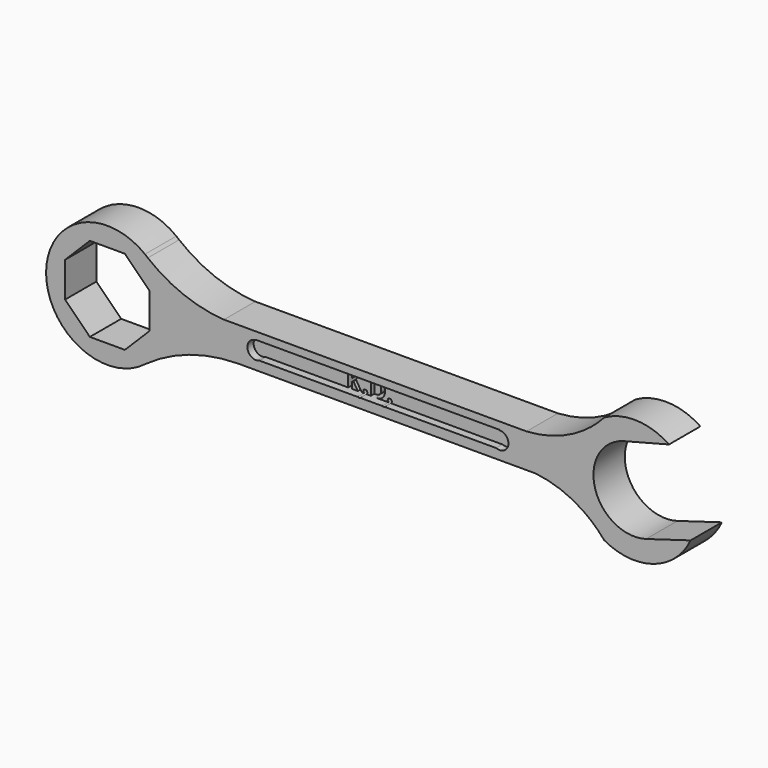
from build123d import *

# Parameters (mm, degrees)
F1_DEPTH = 5.08
F2_DEPTH = 6.35


with BuildPart() as f1:
    # F0 (on Front) → F1 (new body)
    with BuildSketch(Plane.XZ):
        Polygon((-37.6947642991, -0.3162783257), (-37.6947642991, -1.3017182937), (-36.7244291742, -1.3017182937), (-37.4476490649, -0.1386453701), align=None)
    extrude(amount=F1_DEPTH)


with BuildPart() as f1b:
    # F0 (on Front) → F1, piece 2 (new body)
    with BuildSketch(Plane.XZ):
        with BuildLine():
            add(Edge.make_bspline(
                [(-33.7735470137, -0.8183633124), (-32.9276757965, -0.8183633124), (-32.9276757965, 0.0897398586)],
                knots=[0, 0, 0, 1, 1, 1], degree=2))
            add(Edge.make_bspline(
                [(-32.9276757965, 0.0897398586), (-32.9276757965, 0.9791130241), (-33.7131276411, 0.9791130241)],
                knots=[0, 0, 0, 1, 1, 1], degree=2))
            Line((-33.7131276411, 0.9791130241), (-34.0242874102, 0.9791130241))
            Line((-34.0242874102, 0.9791130241), (-34.0242874102, -0.8183633124))
            Line((-34.0242874102, -0.8183633124), (-33.7735470137, -0.8183633124))
        make_face()
    extrude(amount=F1_DEPTH)


with BuildPart() as f1c:
    # F0 (on Front) → F1, piece 3 (new body)
    with BuildSketch(Plane.XZ):
        with BuildLine():
            ThreePointArc((-52.2002466023, 1.4169405788), (-53.5880827015, -0.2857123828), (-51.6405591111, -1.3017182937))
            Line((-51.6405591111, -1.3017182937), (-38.2802280201, -1.3017182937))
            Line((-38.2802280201, -1.3017182937), (-38.2802280201, 1.4588428429))
            Line((-38.2802280201, 1.4588428429), (-37.6947642991, 1.4588428429))
            Line((-37.6947642991, 1.4588428429), (-37.6947642991, 0.1954737607))
            Line((-37.6947642991, 0.1954737607), (-37.4645664893, 0.5205299856))
            Line((-37.4645664893, 0.5205299856), (-36.7165746558, 1.4588428429))
            Line((-36.7165746558, 1.4588428429), (-36.0670663997, 1.4588428429))
            Line((-36.0670663997, 1.4588428429), (-37.0301511999, 0.2371631278))
            Line((-37.0301511999, 0.2371631278), (-36.059816075, -1.3017182937))
            Line((-36.059816075, -1.3017182937), (-35.7097975851, -1.3017182937))
            add(Edge.make_bspline(
                [(-35.7097975851, -1.3017182937), (-35.7326776428, -1.2871840866), (-35.7519793713, -1.2684876387)],
                knots=[0.7773779948, 0.7773779948, 0.7773779948, 1, 1, 1], degree=2))
            add(Edge.make_bspline(
                [(-35.7519793713, -1.2684876387), (-35.8386811711, -1.1845047107), (-35.8386811711, -1.0316436979)],
                knots=[0, 0, 0, 1, 1, 1], degree=2))
            add(Edge.make_bspline(
                [(-35.8386811711, -1.0316436979), (-35.8386811711, -0.8733449416), (-35.7537919525, -0.7920808853)],
                knots=[0, 0, 0, 1, 1, 1], degree=2))
            add(Edge.make_bspline(
                [(-35.7537919525, -0.7920808853), (-35.6689027339, -0.7108168291), (-35.5063746215, -0.7108168291)],
                knots=[0, 0, 0, 1, 1, 1], degree=2))
            add(Edge.make_bspline(
                [(-35.5063746215, -0.7108168291), (-35.3498884463, -0.7108168291), (-35.2640929371, -0.7938934665)],
                knots=[0, 0, 0, 1, 1, 1], degree=2))
            add(Edge.make_bspline(
                [(-35.2640929371, -0.7938934665), (-35.178297428, -0.8769701039), (-35.178297428, -1.0316436979)],
                knots=[0, 0, 0, 1, 1, 1], degree=2))
            add(Edge.make_bspline(
                [(-35.178297428, -1.0316436979), (-35.178297428, -1.1808795484), (-35.2649992277, -1.2666750575)],
                knots=[0, 0, 0, 1, 1, 1], degree=2))
            add(Edge.make_bspline(
                [(-35.2649992277, -1.2666750575), (-35.2850167295, -1.2864833171), (-35.3086574309, -1.3017182937)],
                knots=[0, 0, 0, 0.2308775808, 0.2308775808, 0.2308775808], degree=2))
            Line((-35.3086574309, -1.3017182937), (-34.6097511313, -1.3017182937))
            Line((-34.6097511313, -1.3017182937), (-34.6097511313, 1.4588428429))
            Line((-34.6097511313, 1.4588428429), (-33.7433373274, 1.4588428429))
            add(Edge.make_bspline(
                [(-33.7433373274, 1.4588428429), (-33.0672445474, 1.4588428429), (-32.6932486306, 1.1020664474)],
                knots=[0, 0, 0, 1, 1, 1], degree=2))
            add(Edge.make_bspline(
                [(-32.6932486306, 1.1020664474), (-32.3192527139, 0.7452900519), (-32.3192527139, 0.1048447017)],
                knots=[0, 0, 0, 1, 1, 1], degree=2))
            add(Edge.make_bspline(
                [(-32.3192527139, 0.1048447017), (-32.3192527139, -0.5766858218), (-32.7074471832, -0.9392020578)],
                knots=[0, 0, 0, 1, 1, 1], degree=2))
            add(Edge.make_bspline(
                [(-32.7074471832, -0.9392020578), (-33.0956416525, -1.3017182937), (-33.8279244491, -1.3017182937)],
                knots=[0, 0, 0, 1, 1, 1], degree=2))
            Line((-33.8279244491, -1.3017182937), (-31.7444741577, -1.3017182937))
            add(Edge.make_bspline(
                [(-31.7444741577, -1.3017182937), (-31.7673542154, -1.2871840866), (-31.7866559439, -1.2684876387)],
                knots=[0.7773779948, 0.7773779948, 0.7773779948, 1, 1, 1], degree=2))
            add(Edge.make_bspline(
                [(-31.7866559439, -1.2684876387), (-31.8733577437, -1.1845047107), (-31.8733577437, -1.0316436979)],
                knots=[0, 0, 0, 1, 1, 1], degree=2))
            add(Edge.make_bspline(
                [(-31.8733577437, -1.0316436979), (-31.8733577437, -0.8733449416), (-31.7884685251, -0.7920808853)],
                knots=[0, 0, 0, 1, 1, 1], degree=2))
            add(Edge.make_bspline(
                [(-31.7884685251, -0.7920808853), (-31.7035793065, -0.7108168291), (-31.5410511941, -0.7108168291)],
                knots=[0, 0, 0, 1, 1, 1], degree=2))
            add(Edge.make_bspline(
                [(-31.5410511941, -0.7108168291), (-31.3845650189, -0.7108168291), (-31.2987695098, -0.7938934665)],
                knots=[0, 0, 0, 1, 1, 1], degree=2))
            add(Edge.make_bspline(
                [(-31.2987695098, -0.7938934665), (-31.2129740006, -0.8769701039), (-31.2129740006, -1.0316436979)],
                knots=[0, 0, 0, 1, 1, 1], degree=2))
            add(Edge.make_bspline(
                [(-31.2129740006, -1.0316436979), (-31.2129740006, -1.1808795484), (-31.2996758003, -1.2666750575)],
                knots=[0, 0, 0, 1, 1, 1], degree=2))
            add(Edge.make_bspline(
                [(-31.2996758003, -1.2666750575), (-31.3196933021, -1.2864833171), (-31.3433340035, -1.3017182937)],
                knots=[0, 0, 0, 0.2308775808, 0.2308775808, 0.2308775808], degree=2))
            Line((-31.3433340035, -1.3017182937), (-13.2601651062, -1.3017182937))
            ThreePointArc((-13.2601651062, -1.3017182937), (-11.3126415158, -0.2857123828), (-12.700477615, 1.4169405788))
            Line((-12.700477615, 1.4169405788), (-12.700477615, 1.4824063983))
            Line((-12.700477615, 1.4824063983), (-52.2002466023, 1.4824063983))
            Line((-52.2002466023, 1.4824063983), (-52.2002466023, 1.4169405788))
        make_face()
    extrude(amount=F1_DEPTH)


with BuildPart() as f2:
    # F0 (on Front) → F2 (new body)
    with BuildSketch(Plane.XZ):
        with BuildLine():
            ThreePointArc((-69.7555214797, 7.4693989174), (-69.9874280313, 7.658312579), (-70.216737524, 7.8503703223))
            ThreePointArc((-70.216737524, 7.8503703223), (-86.2529528158, 0), (-70.216737524, -7.8503703223))
            ThreePointArc((-70.216737524, -7.8503703223), (-67.3859848234, -4.37028343), (-66.3736665078, 0))
            ThreePointArc((-66.3736665078, 0), (-67.2585158917, 4.0996604505), (-69.7555214797, 7.4693989174))
        make_face()
        Polygon((-73.4714453214, 6.860867433), (-69.4524422288, 2.8418643404), (-69.4524422288, -2.8418643404), (-73.4714453214, -6.860867433), (-79.1551740022, -6.860867433), (-83.1741770948, -2.8418643404), (-83.1741770948, 2.8418643404), (-79.1551740022, 6.860867433), align=None, mode=Mode.SUBTRACT)
        with BuildLine():
            ThreePointArc((-69.7555214797, 7.4693989174), (-69.9832627758, 7.6633551692), (-70.216737524, 7.8503703223))
            ThreePointArc((-70.216737524, 7.8503703223), (-69.9874280313, 7.658312579), (-69.7555214797, 7.4693989174))
        make_face()
        with BuildLine():
            ThreePointArc((-66.3736665078, 0), (-67.3859848234, -4.37028343), (-70.216737524, -7.8503703223))
            ThreePointArc((-70.216737524, -7.8503703223), (-63.0654222914, -4.1698569866), (-55.1318026872, -2.8488089384))
            ThreePointArc((-55.1318026872, -2.8488089384), (-54.8756379392, -2.8475480962), (-54.6194731912, -2.8488089384))
            Line((-54.6194731912, -2.8488089384), (-10.4214928767, -2.8488089384))
            ThreePointArc((-10.4214928767, -2.8488089384), (-8.6562693679, -2.7561400258), (-6.8910458592, -2.8488089384))
            ThreePointArc((-6.8910458592, -2.8488089384), (-2.8167428022, -3.7997768938), (0.8979261583, -5.7247496122))
            ThreePointArc((0.8979261583, -5.7247496122), (0.0931355174, -4.3419284773), (-0.481735172, -2.8488089384))
            ThreePointArc((-0.481735172, -2.8488089384), (-0.8940591369, -0.0886462018), (-0.5305457237, 2.6783679621))
            ThreePointArc((-0.5305457237, 2.6783679621), (0.1053141536, 4.3672244014), (1.0332730926, 5.9149472653))
            ThreePointArc((1.0332730926, 5.9149472653), (-3.4345991731, 3.6465000935), (-8.3509449023, 2.6783679621))
            ThreePointArc((-8.3509449023, 2.6783679621), (-9.3862188895, 2.6489862369), (-10.4214928767, 2.6783679621))
            Line((-10.4214928767, 2.6783679621), (-54.6194731912, 2.6783679621))
            ThreePointArc((-54.6194731912, 2.6783679621), (-56.0152814214, 2.6339217613), (-57.4110896516, 2.6783679621))
            ThreePointArc((-57.4110896516, 2.6783679621), (-63.953384712, 4.1203482121), (-69.7555214797, 7.4693989174))
            ThreePointArc((-69.7555214797, 7.4693989174), (-67.2585158917, 4.0996604505), (-66.3736665078, 0))
        make_face()
        with BuildLine():
            Line((-38.2802280201, -1.3017182937), (-51.6405591111, -1.3017182937))
            ThreePointArc((-51.6405591111, -1.3017182937), (-53.5880827015, -0.2857123828), (-52.2002466023, 1.4169405788))
            Line((-52.2002466023, 1.4169405788), (-52.2002466023, 1.4824063983))
            Line((-52.2002466023, 1.4824063983), (-12.700477615, 1.4824063983))
            Line((-12.700477615, 1.4824063983), (-12.700477615, 1.4169405788))
            ThreePointArc((-12.700477615, 1.4169405788), (-11.3126415158, -0.2857123828), (-13.2601651062, -1.3017182937))
            Line((-13.2601651062, -1.3017182937), (-31.3433340035, -1.3017182937))
            add(Edge.make_bspline(
                [(-31.3433340035, -1.3017182937), (-31.4220882653, -1.3524705667), (-31.5410511941, -1.3524705667)],
                knots=[0.2308775808, 0.2308775808, 0.2308775808, 1, 1, 1], degree=2))
            add(Edge.make_bspline(
                [(-31.5410511941, -1.3524705667), (-31.6645788508, -1.3524705667), (-31.7444741577, -1.3017182937)],
                knots=[0, 0, 0, 0.7773779948, 0.7773779948, 0.7773779948], degree=2))
            Line((-31.7444741577, -1.3017182937), (-33.8279244491, -1.3017182937))
            Line((-33.8279244491, -1.3017182937), (-34.6097511313, -1.3017182937))
            Line((-34.6097511313, -1.3017182937), (-35.3086574309, -1.3017182937))
            add(Edge.make_bspline(
                [(-35.3086574309, -1.3017182937), (-35.3874116927, -1.3524705667), (-35.5063746215, -1.3524705667)],
                knots=[0.2308775808, 0.2308775808, 0.2308775808, 1, 1, 1], degree=2))
            add(Edge.make_bspline(
                [(-35.5063746215, -1.3524705667), (-35.6299022782, -1.3524705667), (-35.7097975851, -1.3017182937)],
                knots=[0, 0, 0, 0.7773779948, 0.7773779948, 0.7773779948], degree=2))
            Line((-35.7097975851, -1.3017182937), (-36.059816075, -1.3017182937))
            Line((-36.059816075, -1.3017182937), (-36.7244291742, -1.3017182937))
            Line((-36.7244291742, -1.3017182937), (-37.6947642991, -1.3017182937))
            Line((-37.6947642991, -1.3017182937), (-38.2802280201, -1.3017182937))
        make_face(mode=Mode.SUBTRACT)
        with BuildLine():
            ThreePointArc((-54.6194731912, -2.8488089384), (-54.8756379392, -2.8475480962), (-55.1318026872, -2.8488089384))
            Line((-55.1318026872, -2.8488089384), (-54.6194731912, -2.8488089384))
        make_face()
        with BuildLine():
            Line((-54.6194731912, 2.6783679621), (-57.4110896516, 2.6783679621))
            ThreePointArc((-57.4110896516, 2.6783679621), (-56.0152814214, 2.6339217613), (-54.6194731912, 2.6783679621))
        make_face()
        with BuildLine():
            ThreePointArc((-6.8910458592, -2.8488089384), (-8.6562693679, -2.7561400258), (-10.4214928767, -2.8488089384))
            Line((-10.4214928767, -2.8488089384), (-6.8910458592, -2.8488089384))
        make_face()
        with BuildLine():
            Line((-8.3509449023, 2.6783679621), (-10.4214928767, 2.6783679621))
            ThreePointArc((-10.4214928767, 2.6783679621), (-9.3862188895, 2.6489862369), (-8.3509449023, 2.6783679621))
        make_face()
        with BuildLine():
            ThreePointArc((-0.481735172, -2.8488089384), (0.0931355174, -4.3419284773), (0.8979261583, -5.7247496122))
            ThreePointArc((0.8979261583, -5.7247496122), (2.6732616169, -7.1304617501), (4.2441949289, -8.7614158066))
            ThreePointArc((4.2441949289, -8.7614158066), (12.2349623012, -9.550730865), (18.2480584248, -4.2292595958))
            Line((18.2480584248, -4.2292595958), (11.0378986921, -6.3722072966))
            ThreePointArc((11.0378986921, -6.3722072966), (2.7717934125, -1.8938979831), (7.250102726, 6.3722072966))
            ThreePointArc((7.250102726, 6.3722072966), (7.4688795623, 6.4331830803), (7.6896116225, 6.4866499664))
            Line((7.6896116225, 6.4866499664), (14.7523274643, 8.3256936423))
            ThreePointArc((14.7523274643, 8.3256936423), (9.5598900503, 10.0298324849), (4.2441949289, 8.7614158066))
            ThreePointArc((4.2441949289, 8.7614158066), (2.7226657843, 7.2435033899), (1.0332730926, 5.9149472653))
            ThreePointArc((1.0332730926, 5.9149472653), (0.1053141536, 4.3672244014), (-0.5305457237, 2.6783679621))
            ThreePointArc((-0.5305457237, 2.6783679621), (-0.8940591369, -0.0886462018), (-0.481735172, -2.8488089384))
        make_face()
        with BuildLine():
            Line((7.250102726, 6.3722072966), (7.6896116225, 6.4866499664))
            ThreePointArc((7.6896116225, 6.4866499664), (7.4688795623, 6.4331830803), (7.250102726, 6.3722072966))
        make_face()
    extrude(amount=F2_DEPTH)


solid = Compound([f1.part, f1b.part, f1c.part, f2.part])
